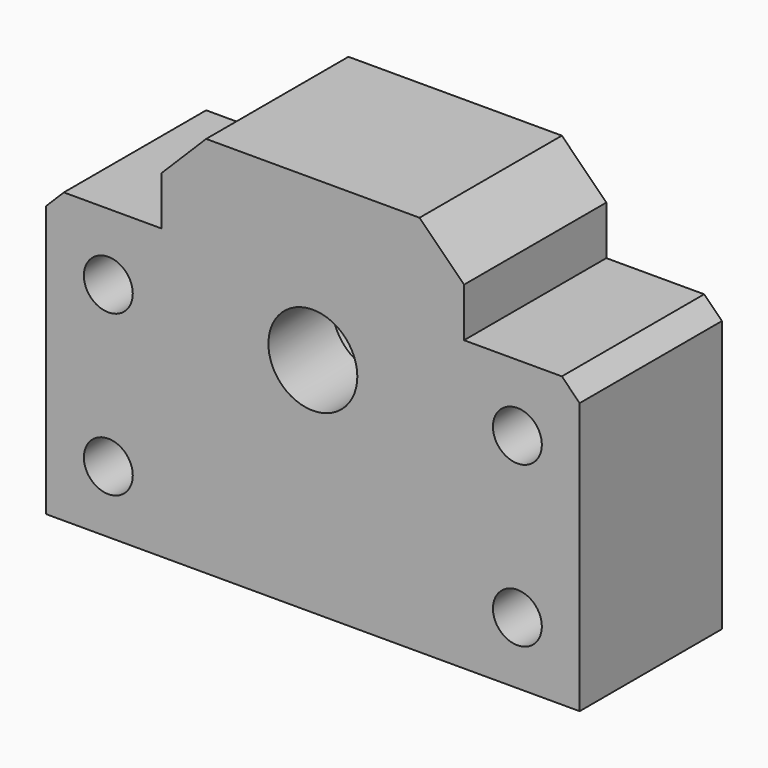
from build123d import *

# Parameters (mm, degrees)
F1_DEPTH = 10
F2_R     = 5
F2_R_2   = 2.75
F3_DEPTH = 20
F4_SIZE  = 5
F5_SIZE  = 2
F6_R     = 10
F7_DEPTH = 11


with BuildPart() as f1:
    # F0 (on Front) → F1 (new body, symmetric)
    with BuildSketch(Plane.XZ):
        Polygon((17, 11), (17, 21.5), (-17, 21.5), (-17, 11), (-30, 11), (-30, -21.5), (30, -21.5), (30, 11), align=None)
    extrude(amount=F1_DEPTH, both=True)

    # F2 (on face) → F3 (cut)
    with BuildSketch(Plane.XZ.offset(10)):
        with Locations((0, 3.5)):
            Circle(F2_R)
        with Locations((23, 3.5)):
            Circle(F2_R_2)
        with Locations((23, -14.5)):
            Circle(F2_R_2)
        with Locations((-23, -14.5)):
            Circle(F2_R_2)
        with Locations((-23, 3.5)):
            Circle(F2_R_2)
    extrude(amount=-F3_DEPTH, mode=Mode.SUBTRACT)

    # F4
    f4_edges = [f1.edges().sort_by_distance(p)[0] for p in [
        (-17, 0, 21.5),
        (17, 0, 21.5),
    ]]
    chamfer(f4_edges, length=F4_SIZE)

    # F5
    f5_edges = [f1.edges().sort_by_distance(p)[0] for p in [
        (30, 0, 11),
        (-30, 0, 11),
    ]]
    chamfer(f5_edges, length=F5_SIZE)

    # F6 (on face) → F7 (cut)
    with BuildSketch(Plane(origin=(0, 10, 0), x_dir=(-1, 0, 0), z_dir=(0, 1, 0))):
        with Locations((0, 3.5)):
            Circle(F6_R)
    extrude(amount=-F7_DEPTH, mode=Mode.SUBTRACT)


solid = f1.part
